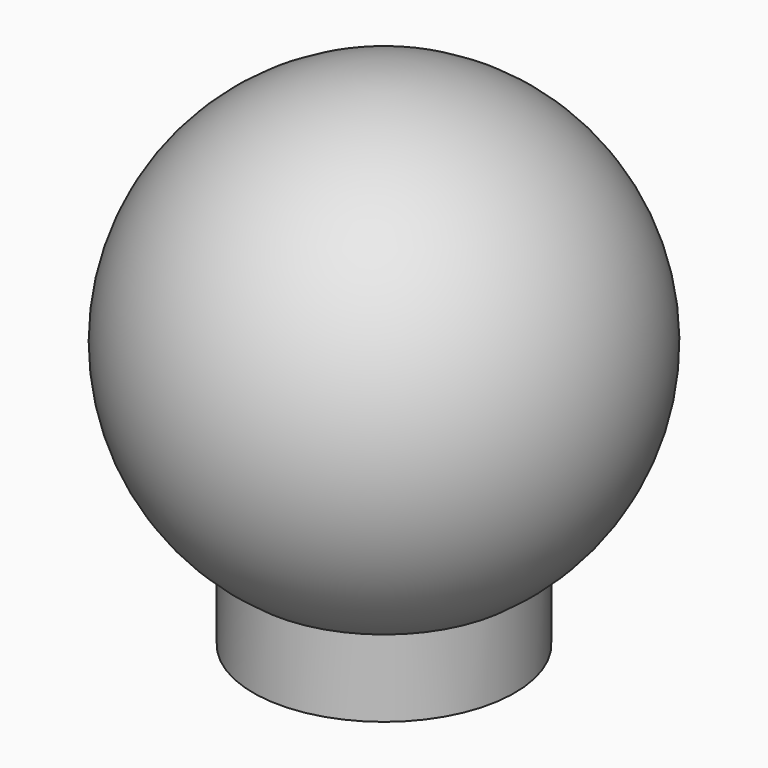
from build123d import *


with BuildPart() as f1:
    # F0 (on Right) → F1 (revolve)
    with BuildSketch(Plane.YZ):
        with BuildLine():
            Line((17, 0), (17, 10))
            ThreePointArc((17, 10), (28.649192, 43.619189), (0, 64.718414))
            Line((0, 64.718414), (0, 30))
            Line((0, 30), (10, 30))
            Line((10, 30), (10, 0))
            Line((10, 0), (17, 0))
        make_face()
    revolve(axis=Axis((0, 0, -35.023033), (0, 0, 1)))


solid = f1.part
